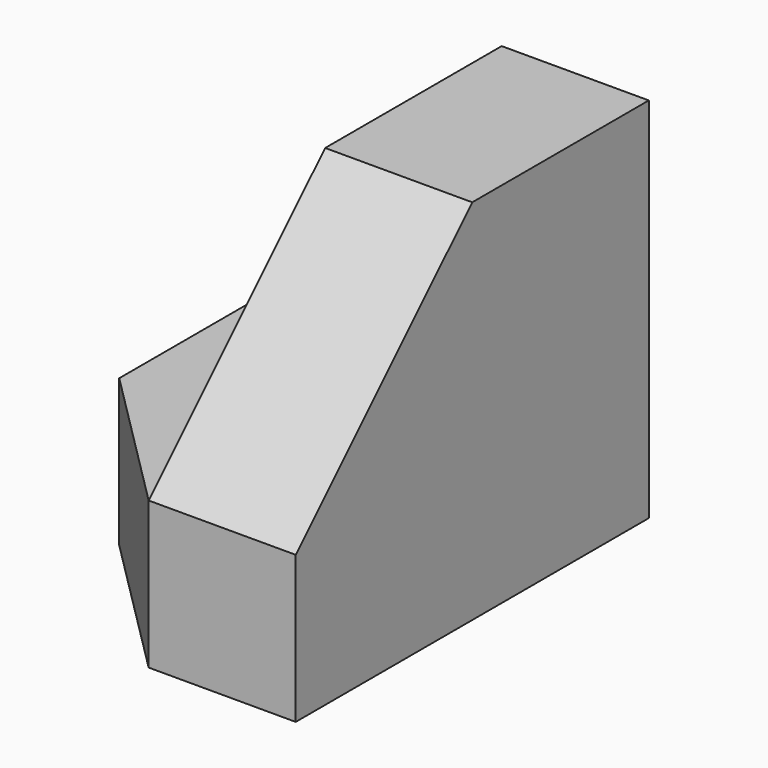
from build123d import *

# Parameters (mm, degrees)
F0_W     = 25.4
F0_H     = 31.75
F1_DEPTH = 38.1
F2_W     = 12.7
F2_H     = 19.05
F3_DEPTH = 38.1
F5_DEPTH = 25.4
F7_DEPTH = 25.4


with BuildPart() as f1:
    # F0 (on Front) → F1 (new body)
    with BuildSketch(Plane.XZ):
        with Locations((12.7, 15.875)):
            Rectangle(F0_W, F0_H)
    extrude(amount=F1_DEPTH)

    # F2 (on face) → F3 (cut)
    with BuildSketch(Plane.XZ.offset(38.1)):
        with Locations((6.35, 22.225)):
            Rectangle(F2_W, F2_H)
    extrude(amount=-F3_DEPTH, mode=Mode.SUBTRACT)

    # F4 (on face) → F5 (cut)
    with BuildSketch(Plane(origin=(12.7, 0, 0), x_dir=(0, -1, 0), z_dir=(-1, 0, 0))):
        Polygon((38.1, 12.7), (38.1, 31.75), (19.05, 31.75), align=None)
    extrude(amount=-F5_DEPTH, mode=Mode.SUBTRACT)

    # F6 (on face) → F7 (cut)
    with BuildSketch(Plane.XY.offset(12.7)):
        Polygon((0, -25.4), (0, -38.1), (12.7, -38.1), align=None)
    extrude(amount=-F7_DEPTH, mode=Mode.SUBTRACT)


solid = f1.part
